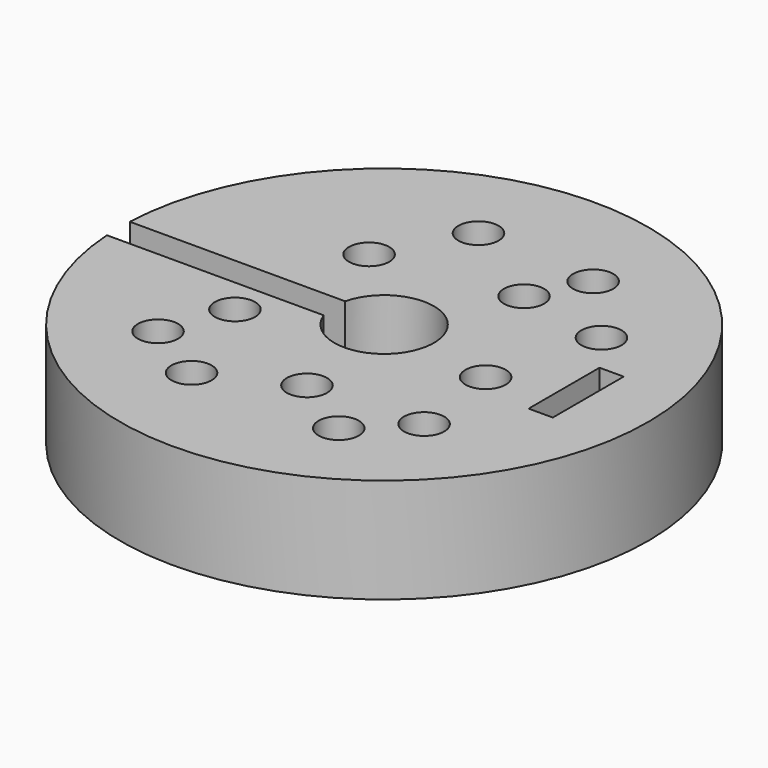
from build123d import *

# Parameters (mm, degrees)
F0_W     = 26.5914327465
F0_H     = 12.9917515442
F2_W     = 3
F2_H     = 11
F3_DEPTH = 25
F5_D     = 5
F7_D     = 2.4
F7_DEPTH = 32.7668578753


with BuildPart() as f1:
    # F0 (on Front) → F1 (revolve)
    with BuildSketch(Plane.XZ):
        with Locations((19.4701415021, 6.4958757721)):
            Rectangle(F0_W, F0_H)
    revolve(axis=Axis((0, 0, 8.0647598952), (0, 0, -1)))

    # F2 (on face) → F3 (cut)
    with BuildSketch(Plane.XY.offset(12.9917515442)):
        Polygon((-5.7890059302, -2.1473090164), (-6.0011490459, 1.4524929605), (-35.6950574279, 1.4524929605), (-35.6950574279, -2.1473090164), align=None)
        with Locations((23.4585951418, 0.467357954)):
            Rectangle(F2_W, F2_H)
    extrude(amount=-F3_DEPTH, mode=Mode.SUBTRACT)

    # F5 (through all)
    with Locations(Plane.XY.offset(12.9917515442)):
        with Locations((-10.3396493942, 10.5901481584), (6.8767020359, 13.1061266864), (14.5896849828, -2.4901164053), (2.1402191687, -14.6451032608), (-13.2669567932, -6.5610551786), (-4.8388554715, 20.6837356091), (18.1761129583, 10.9936508379), (-8.2428784436, -19.577701499), (16.0723110631, -13.8892857308), (10.152108036, 19.7349414229), (10.152108036, -19.7349414229), (-16.224399209, -14.8012051359)):
            Hole(F5_D / 2)

    # F7 (through all, one way)
    with BuildSketch(Plane.XZ):
        with Locations((-17.7818648517, 6.34881109)):
            Circle(F7_D / 2)
    extrude(amount=-F7_DEPTH, mode=Mode.SUBTRACT)


solid = f1.part
